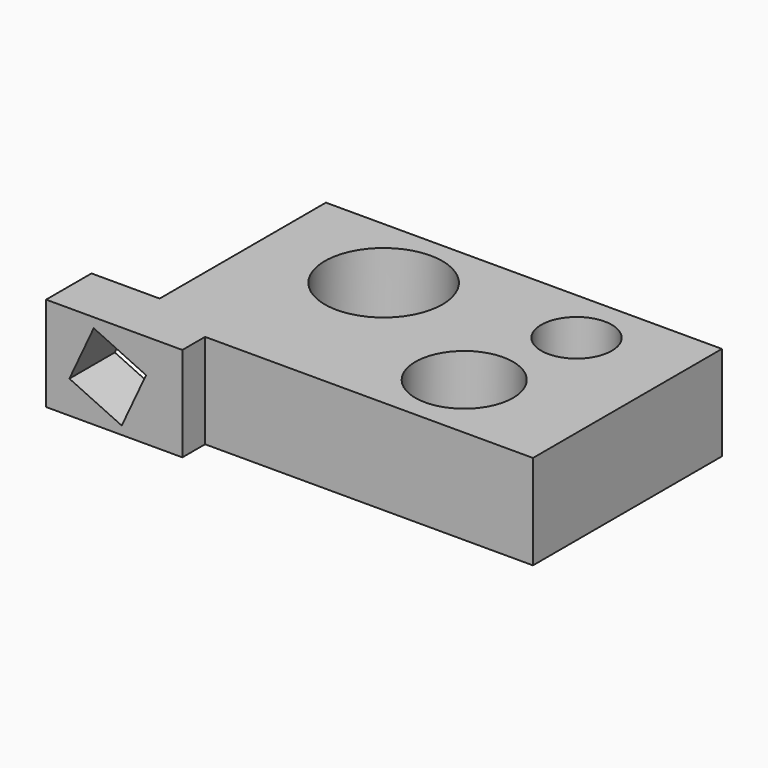
from build123d import *

# Parameters (mm, degrees)
F0_R     = 21.2656768744
F0_R_2   = 25.5883994311
F0_R_3   = 15.3385974219
F0_W     = 29.6467319131
F0_H     = 12.3528018594
F1_DEPTH = 41.148
F3_DEPTH = 62.738
F4_W     = 45.1700200792
F4_H     = 28.5053551197
F5_DEPTH = 16.764


with BuildPart() as f1:
    # F0 (on Top) → F1 (new body)
    with BuildSketch(Plane.XY):
        Polygon((86.1493721604, -51.383343386), (86.1493721604, 51.383343386), (-86.1493721604, 51.383343386), (-86.1493721604, -39.0305415266), (-56.5026402473, -39.0305415266), (-56.5026402473, -51.383343386), align=None)
        with Locations((32.0047549903, -21.087879315)):
            Circle(F0_R, mode=Mode.SUBTRACT)
        with Locations((-33.9969657362, 17.5746399909)):
            Circle(F0_R_2, mode=Mode.SUBTRACT)
        with Locations((42.4747541547, 26.905214414)):
            Circle(F0_R_3, mode=Mode.SUBTRACT)
        with Locations((-71.3260062039, -45.2069424563)):
            Rectangle(F0_W, F0_H)
        Polygon((-86.1493721604, -51.383343386), (-86.1493721604, -39.0305415266), (-115.7961040735, -39.0305415266), (-115.7961040735, -63.7361452454), (-56.5026402473, -63.7361452454), (-56.5026402473, -51.383343386), align=None)
    extrude(amount=F1_DEPTH)

    # F2 (on face) → F3 (cut)
    with BuildSketch(Plane.XZ.offset(63.7361452454)):
        Polygon((-82.8842633783, 3.5929778848), (-72.3024426285, 26.3603644998), (-95.0698292435, 36.9421852496), (-105.6516499933, 14.1747986345), align=None)
    extrude(amount=-F3_DEPTH, mode=Mode.SUBTRACT)

    # F4 (on Top) → F5 (cut)
    with BuildSketch(Plane.XY):
        with Locations((-26.1654389324, -31.664095819)):
            Rectangle(F4_W, F4_H)
    extrude(amount=F5_DEPTH, mode=Mode.SUBTRACT)


solid = f1.part
